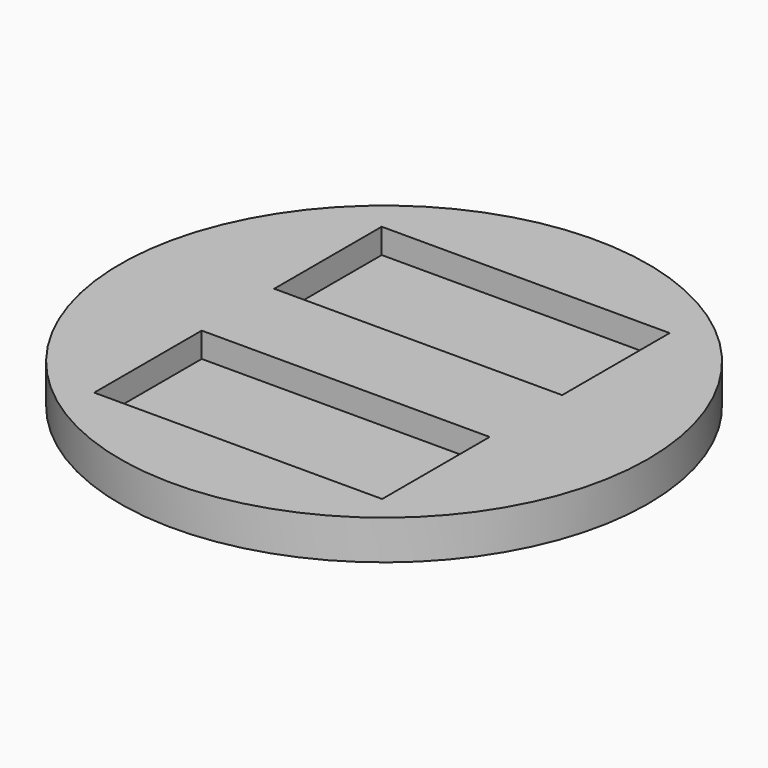
from build123d import *

# Parameters (mm, degrees)
F0_R     = 27.5
F1_DEPTH = 4.1
F2_W     = 30
F2_H     = 14
F3_DEPTH = 2.6
F4_W     = 30
F4_H     = 14
F5_DEPTH = 2.6


with BuildPart() as f1:
    # F0 (on Top) → F1 (new body)
    with BuildSketch(Plane.XY):
        Circle(F0_R)
    extrude(amount=F1_DEPTH)

    # F2 (on face) → F3 (cut)
    with BuildSketch(Plane.XY.offset(4.1)):
        with Locations((0, 11.4413)):
            Rectangle(F2_W, F2_H)
    extrude(amount=-F3_DEPTH, mode=Mode.SUBTRACT)

    # F4 (on face) → F5 (cut)
    with BuildSketch(Plane.XY.offset(4.1)):
        with Locations((0, -12)):
            Rectangle(F4_W, F4_H)
    extrude(amount=-F5_DEPTH, mode=Mode.SUBTRACT)


solid = f1.part
